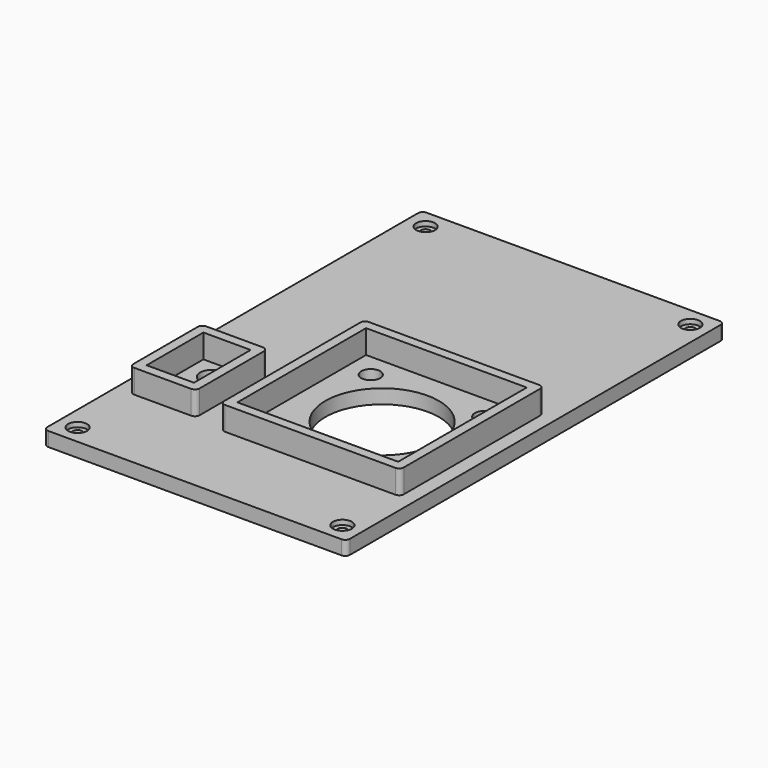
from build123d import *

# Parameters (mm, degrees)
SKETCH_W        = 64
SKETCH_H        = 100
PAD_DEPTH       = 3
SKETCH001_R     = 1
POCKET_DEPTH    = 5
SKETCH002_R     = 2
SKETCH002_R_2   = 2.5
SKETCH002_R_3   = 12
POCKET001_DEPTH = 5
SKETCH003_W     = 38
SKETCH003_H     = 38
SKETCH003_W_2   = 34
SKETCH003_H_2   = 34
SKETCH003_W_3   = 14
SKETCH003_H_3   = 19
SKETCH003_W_4   = 10
SKETCH003_H_4   = 15
PAD001_DEPTH    = 5
SKETCH004_R     = 2
POCKET002_DEPTH = 1
FILLET_R        = 1
FILLET001_R     = 1
FILLET002_R     = 1
FILLET003_R     = 1
FILLET004_R     = 1
FILLET005_R     = 1
FILLET006_R     = 1
FILLET007_R     = 1
FILLET008_R     = 1
FILLET009_R     = 1
FILLET010_R     = 1
FILLET011_R     = 1


with BuildPart() as part:
    # Sketch → Pad (new body)
    with BuildSketch(Plane.XY):
        with Locations((32, 50)):
            Rectangle(SKETCH_W, SKETCH_H)
    extrude(amount=PAD_DEPTH)

    # Sketch001 → Pocket (cut)
    with BuildSketch(Plane.XY.offset(3)):
        with Locations((4, 96)):
            Circle(SKETCH001_R)
        with Locations((60, 96)):
            Circle(SKETCH001_R)
        with Locations((4, 4)):
            Circle(SKETCH001_R)
        with Locations((60, 4)):
            Circle(SKETCH001_R)
    extrude(amount=-POCKET_DEPTH, mode=Mode.SUBTRACT)

    # Sketch002 → Pocket001 (cut)
    with BuildSketch(Plane.XY.offset(3)):
        with Locations((30, 49)):
            Circle(SKETCH002_R)
        with Locations((54, 49)):
            Circle(SKETCH002_R)
        with Locations((30, 25)):
            Circle(SKETCH002_R)
        with Locations((54, 25)):
            Circle(SKETCH002_R)
        with Locations((10, 32)):
            Circle(SKETCH002_R_2)
        with Locations((10, 25)):
            Circle(SKETCH002_R_2)
        with Locations((42, 37)):
            Circle(SKETCH002_R_3)
    extrude(amount=-POCKET001_DEPTH, mode=Mode.SUBTRACT)

    # Sketch003 → Pad001 (new body)
    with BuildSketch(Plane.XY.offset(3)):
        with Locations((42, 37)):
            Rectangle(SKETCH003_W, SKETCH003_H)
        with Locations((42, 37)):
            Rectangle(SKETCH003_W_2, SKETCH003_H_2, mode=Mode.SUBTRACT)
        with Locations((10, 28.5)):
            Rectangle(SKETCH003_W_3, SKETCH003_H_3)
        with Locations((10, 28.5)):
            Rectangle(SKETCH003_W_4, SKETCH003_H_4, mode=Mode.SUBTRACT)
    extrude(amount=PAD001_DEPTH)

    # Sketch004 → Pocket002 (cut)
    with BuildSketch(Plane.XY.offset(3)):
        with Locations((4, 96)):
            Circle(SKETCH004_R)
        with Locations((60, 96)):
            Circle(SKETCH004_R)
        with Locations((4, 4)):
            Circle(SKETCH004_R)
        with Locations((60, 4)):
            Circle(SKETCH004_R)
    extrude(amount=-POCKET002_DEPTH, mode=Mode.SUBTRACT)

    # Fillet
    fillet_edges = [part.edges().sort_by_distance(p)[0] for p in [
        (64, 0, 1.5),
    ]]
    fillet(fillet_edges, radius=FILLET_R)

    # Fillet001
    fillet001_edges = [part.edges().sort_by_distance(p)[0] for p in [
        (64, 100, 1.5),
    ]]
    fillet(fillet001_edges, radius=FILLET001_R)

    # Fillet002
    fillet002_edges = [part.edges().sort_by_distance(p)[0] for p in [
        (0, 100, 1.5),
    ]]
    fillet(fillet002_edges, radius=FILLET002_R)

    # Fillet003
    fillet003_edges = [part.edges().sort_by_distance(p)[0] for p in [
        (0, 0, 1.5),
    ]]
    fillet(fillet003_edges, radius=FILLET003_R)

    # Fillet004
    fillet004_edges = [part.edges().sort_by_distance(p)[0] for p in [
        (3, 19, 5.5),
    ]]
    fillet(fillet004_edges, radius=FILLET004_R)

    # Fillet005
    fillet005_edges = [part.edges().sort_by_distance(p)[0] for p in [
        (3, 38, 5.5),
    ]]
    fillet(fillet005_edges, radius=FILLET005_R)

    # Fillet006
    fillet006_edges = [part.edges().sort_by_distance(p)[0] for p in [
        (17, 38, 5.5),
    ]]
    fillet(fillet006_edges, radius=FILLET006_R)

    # Fillet007
    fillet007_edges = [part.edges().sort_by_distance(p)[0] for p in [
        (17, 19, 5.5),
    ]]
    fillet(fillet007_edges, radius=FILLET007_R)

    # Fillet008
    fillet008_edges = [part.edges().sort_by_distance(p)[0] for p in [
        (61, 56, 5.5),
    ]]
    fillet(fillet008_edges, radius=FILLET008_R)

    # Fillet009
    fillet009_edges = [part.edges().sort_by_distance(p)[0] for p in [
        (61, 18, 5.5),
    ]]
    fillet(fillet009_edges, radius=FILLET009_R)

    # Fillet010
    fillet010_edges = [part.edges().sort_by_distance(p)[0] for p in [
        (23, 18, 5.5),
    ]]
    fillet(fillet010_edges, radius=FILLET010_R)

    # Fillet011
    fillet011_edges = [part.edges().sort_by_distance(p)[0] for p in [
        (23, 56, 5.5),
    ]]
    fillet(fillet011_edges, radius=FILLET011_R)


solid = part.part
